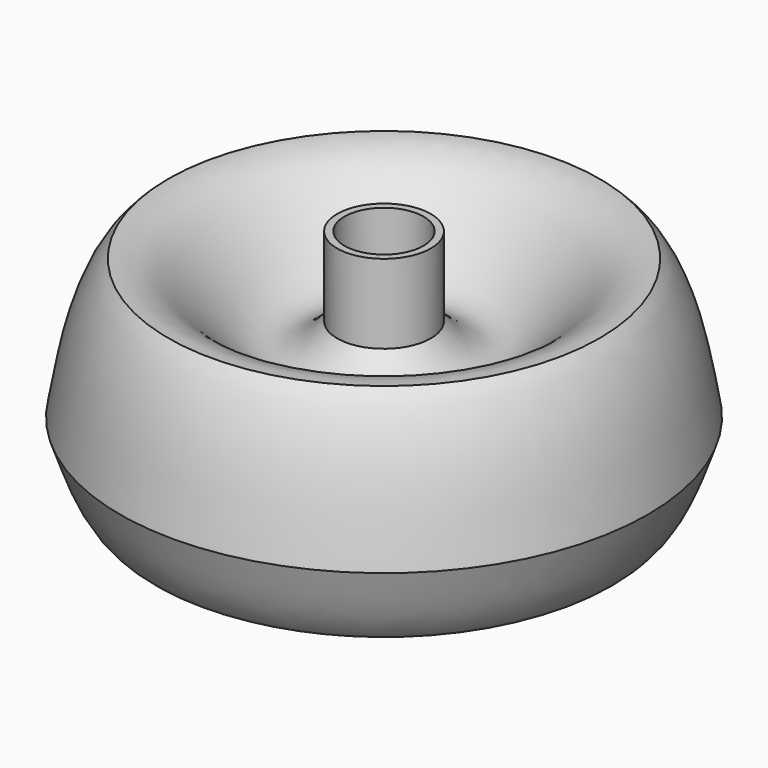
from build123d import *


with BuildPart() as f1:
    # F0 (on Front) → F1 (revolve)
    with BuildSketch(Plane.XZ):
        with BuildLine():
            Line((0, 28.099686), (0, 22.225))
            Line((0, 22.225), (1.5875, 22.225))
            Line((1.5875, 22.225), (1.5875, 0))
            Line((1.5875, 0), (6.341451, 2.054848))
            add(Edge.make_bspline(
                [(6.341451, 2.054848), (10.540777, 7.838826), (10.168102, 15.041621), (18.939429, 19.406782)],
                knots=[0, 0, 0, 0, 21.442916, 21.442916, 21.442916, 21.442916], degree=3))
            add(Edge.make_bspline(
                [(18.939429, 19.406782), (20.556432, 17.054778), (20.286054, 9.215307), (24.11521, 8.97275)],
                knots=[0, 0, 0, 0, 11.64722, 11.64722, 11.64722, 11.64722], degree=3))
            add(Edge.make_bspline(
                [(24.11521, 8.97275), (28.155569, 5.717743), (30.453973, 14.342109), (31.75, 17.822972)],
                knots=[0, 0, 0, 0, 11.688303, 11.688303, 11.688303, 11.688303], degree=3))
            add(Edge.make_bspline(
                [(31.75, 17.822972), (30.803725, 23.435773), (29.518737, 31.255352), (25.946699, 34.613654)],
                knots=[0, 0, 0, 0, 17.765284, 17.765284, 17.765284, 17.765284], degree=3))
            add(Edge.make_bspline(
                [(5.628359, 27.982606), (14.003698, 17.968016), (17.236267, 35.081048), (25.946699, 34.613654)],
                knots=[0, 0, 0, 0, 21.373014, 21.373014, 21.373014, 21.373014], degree=3))
            Line((5.628359, 27.982606), (5.628359, 37.507606))
            Line((5.628359, 37.507606), (4.762472, 37.507606))
            Line((4.762472, 37.507606), (4.762472, 28.116011))
            Line((4.762472, 28.116011), (0, 28.099686))
        make_face()
    revolve(axis=Axis((0, 0, 14.049843), (0, 0, -1)))


solid = f1.part
